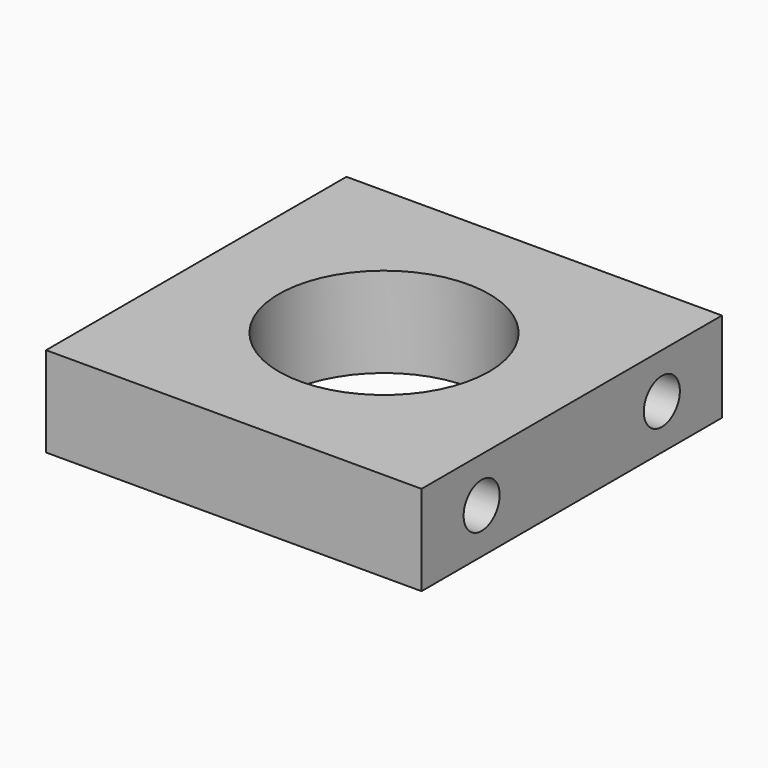
from build123d import *

# Parameters (mm, degrees)
F0_W     = 50
F0_H     = 50
F1_DEPTH = 12
F2_R     = 3
F3_DEPTH = 15
F4_R     = 3
F5_DEPTH = 15
F6_R     = 14
F7_DEPTH = 12.001


with BuildPart() as f1:
    # F0 (on Top) → F1 (new body)
    with BuildSketch(Plane.XY):
        with Locations((-5.501713, -4.568746)):
            Rectangle(F0_W, F0_H)
    extrude(amount=F1_DEPTH)

    # F2 (on face) → F3 (cut)
    with BuildSketch(Plane(origin=(-30.501713, 0, 0), x_dir=(0, -1, 0), z_dir=(-1, 0, 0))):
        with Locations((-10.431254, 6)):
            Circle(F2_R)
        with Locations((19.568746, 6)):
            Circle(F2_R)
    extrude(amount=-F3_DEPTH, mode=Mode.SUBTRACT)

    # F4 (on face) → F5 (cut)
    with BuildSketch(Plane.YZ.offset(19.498287)):
        with Locations((10.431254, 6)):
            Circle(F4_R)
        with Locations((-19.568746, 6)):
            Circle(F4_R)
    extrude(amount=-F5_DEPTH, mode=Mode.SUBTRACT)

    # F6 (on face) → F7 (cut, through all)
    with BuildSketch(Plane(origin=(0, 0, 0), x_dir=(1, 0, 0), z_dir=(0, 0, -1))):
        with Locations((-5.501713, 4.568746)):
            Circle(F6_R)
    extrude(amount=-F7_DEPTH, mode=Mode.SUBTRACT)


solid = f1.part
